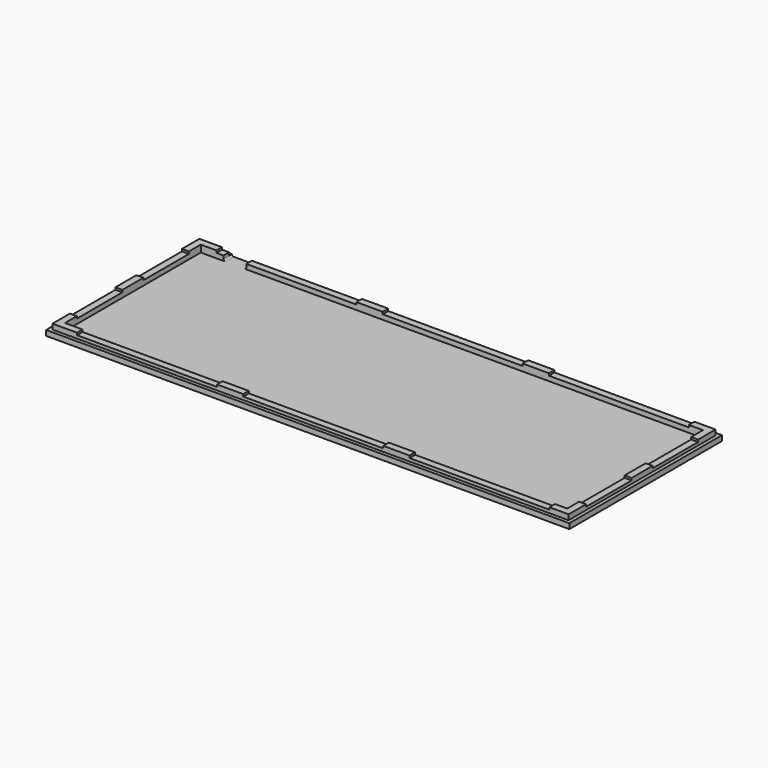
from build123d import *

# Parameters (mm, degrees)
SKETCH001_W     = 299
SKETCH001_H     = 109
PAD_DEPTH       = 6
SKETCH002_W     = 287
SKETCH002_H     = 97
POCKET_DEPTH    = 4
SKETCH003_W     = 299
SKETCH003_H     = 109
SKETCH003_W_2   = 294.96
SKETCH003_H_2   = 104.96
POCKET001_DEPTH = 3
SKETCH004_W     = 80
SKETCH004_H     = 4
SKETCH004_W_2   = 4
SKETCH004_H_2   = 32.5
POCKET002_DEPTH = 1.25
SKETCH_W        = 13
SKETCH_H        = 6
POCKET003_DEPTH = 4
FILLET_R        = 0.99
FILLET001_R     = 0.99


with BuildPart() as part:
    # Sketch001 → Pad (new body)
    with BuildSketch(Plane.XY):
        Rectangle(SKETCH001_W, SKETCH001_H)
    extrude(amount=PAD_DEPTH)

    # Sketch002 (on Face6 of Pad) → Pocket (cut)
    with BuildSketch(Plane.XY.offset(6)):
        Rectangle(SKETCH002_W, SKETCH002_H)
    extrude(amount=-POCKET_DEPTH, mode=Mode.SUBTRACT)

    # Sketch003 (on Face5 of Pocket) → Pocket001 (cut)
    with BuildSketch(Plane.XY.offset(6)):
        Rectangle(SKETCH003_W, SKETCH003_H)
        Rectangle(SKETCH003_W_2, SKETCH003_H_2, mode=Mode.SUBTRACT)
    extrude(amount=-POCKET001_DEPTH, mode=Mode.SUBTRACT)

    # Sketch004 (on Face11 of Pocket001) → Pocket002 (cut)
    with BuildSketch(Plane.XY.offset(6)):
        with Locations((-94.580218, 50.5)):
            Rectangle(SKETCH004_W, SKETCH004_H)
        with Locations((0.419782, 50.5)):
            Rectangle(SKETCH004_W, SKETCH004_H)
        with Locations((95.419782, 50.5)):
            Rectangle(SKETCH004_W, SKETCH004_H)
        with Locations((96.548097, -50.5)):
            Rectangle(SKETCH004_W, SKETCH004_H)
        with Locations((1.548097, -50.5)):
            Rectangle(SKETCH004_W, SKETCH004_H)
        with Locations((-93.451903, -50.5)):
            Rectangle(SKETCH004_W, SKETCH004_H)
        with Locations((-145.5, 23.75)):
            Rectangle(SKETCH004_W_2, SKETCH004_H_2)
        with Locations((-145.5, -23.75)):
            Rectangle(SKETCH004_W_2, SKETCH004_H_2)
        with Locations((145.5, 23.75)):
            Rectangle(SKETCH004_W_2, SKETCH004_H_2)
        with Locations((145.5, -23.75)):
            Rectangle(SKETCH004_W_2, SKETCH004_H_2)
    extrude(amount=-POCKET002_DEPTH, mode=Mode.SUBTRACT)

    # Sketch (on Face43 of Pocket002) → Pocket003 (cut)
    with BuildSketch(Plane.XY.offset(6)):
        with Locations((-124, 51.5)):
            Rectangle(SKETCH_W, SKETCH_H)
    extrude(amount=-POCKET003_DEPTH, mode=Mode.SUBTRACT)

    # Fillet
    fillet_edges = [part.edges().sort_by_distance(p)[0] for p in [
        (-130.5, 51.5, 2),
    ]]
    fillet(fillet_edges, radius=FILLET_R)

    # Fillet001
    fillet001_edges = [part.edges().sort_by_distance(p)[0] for p in [
        (-117.5, 51.5, 2),
    ]]
    fillet(fillet001_edges, radius=FILLET001_R)


solid = part.part
